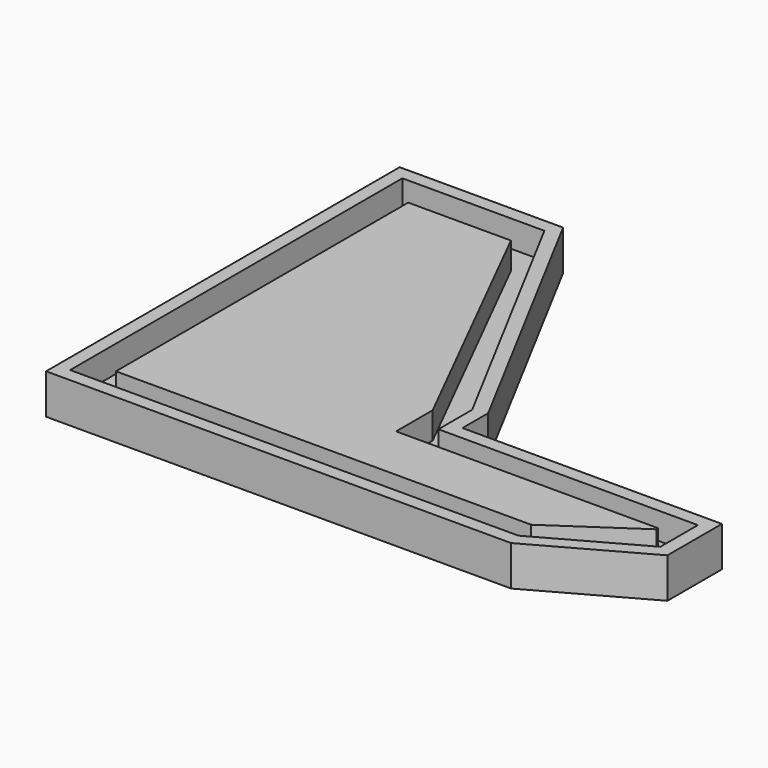
from build123d import *

# Parameters (mm, degrees)
F1_DEPTH = 7.62
F2_T     = -2.54
F4_DEPTH = 5.08


with BuildPart() as f1:
    # F0 (on Top) → F1 (new body)
    with BuildSketch(Plane.XY):
        Polygon((32.0682525635, -14.3153322861), (3.4442073984, 39.2894335091), (-27.6627708226, 39.2894335091), (-27.6627708226, -44.8362566531), (60.85267663, -44.8362566531), (81.4588740468, -33.4062539041), (81.4588740468, -20.4415936023), (32.0682525635, -20.4415936023), align=None)
    extrude(amount=F1_DEPTH)

    # F2
    f2_openings = [f1.faces().sort_by_distance(p)[0] for p in [
        (9.989967, -12.135941, 7.62),
    ]]
    offset(amount=F2_T, openings=f2_openings, kind=Kind.INTERSECTION)

    # F3 (on face) → F4 (join)
    with BuildSketch(Plane.XY.offset(2.54)):
        Polygon((25.0375904143, -18.7208298594), (0, 31.1848036945), (-19.5555072278, 31.1848036945), (-19.5555072278, -38.3611097932), (59.4885759056, -38.3611097932), (74.9432295561, -27.8970263898), (74.9432295561, -27.4460842204), (25.0375904143, -27.4460842204), align=None)
    extrude(amount=F4_DEPTH)


solid = f1.part
